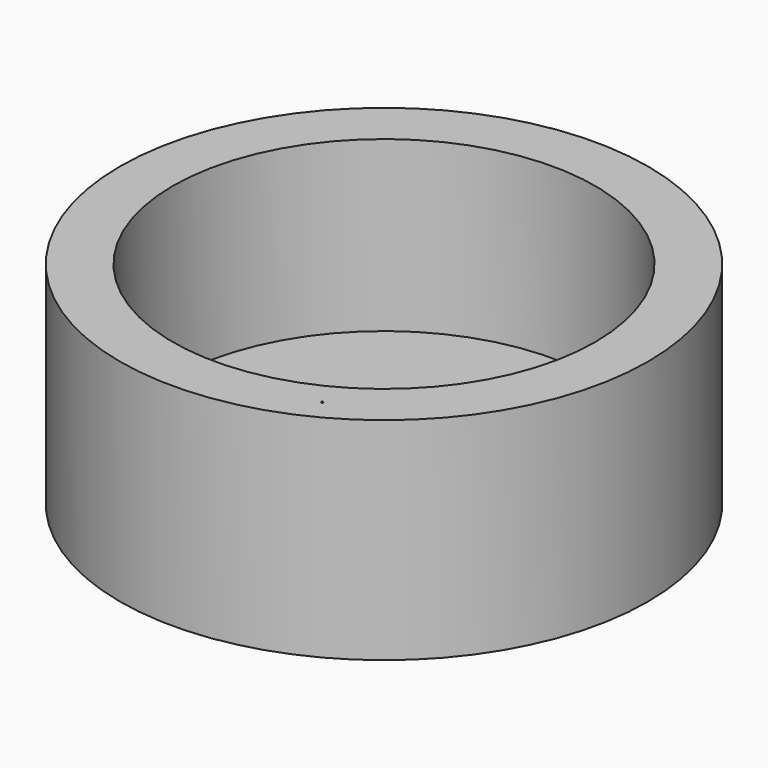
from build123d import *

# Parameters (mm, degrees)
F0_R     = 1250
F1_DEPTH = 1000
F2_R     = 1000
F3_DEPTH = 800
F5_R     = 5
F6_DEPTH = 25


with BuildPart() as f1:
    # F0 (on Top) → F1 (new body)
    with BuildSketch(Plane.XY):
        with Locations((-2.062663, 1.915321)):
            Circle(F0_R)
    extrude(amount=F1_DEPTH)

    # F2 (on face) → F3 (cut)
    with BuildSketch(Plane.XY.offset(1000)):
        with Locations((-2.062663, 1.915321)):
            Circle(F2_R)
    extrude(amount=-F3_DEPTH, mode=Mode.SUBTRACT)

    # F5 (on face) → F6 (cut)
    with BuildSketch(Plane.XY.offset(1000)):
        with Locations((511.027396, -1004.28772)):
            Circle(F5_R)
    extrude(amount=-F6_DEPTH, mode=Mode.SUBTRACT)


solid = f1.part
